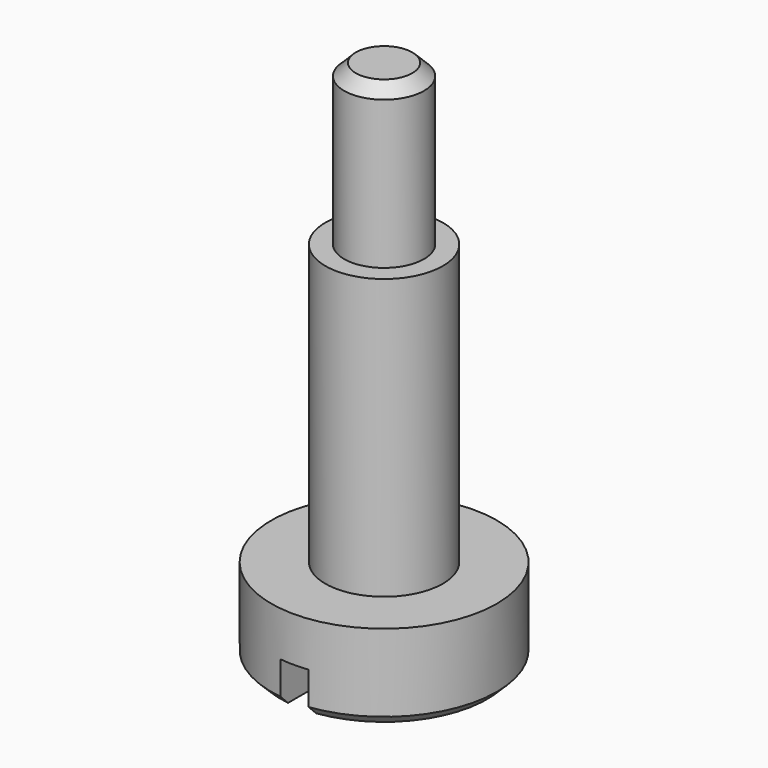
from build123d import *

# Parameters (mm, degrees)
F2_SIZE  = 0.25
F4_DEPTH = 0.9
F5_SIZE  = 0.2


with BuildPart() as f1:
    # F0 (on Front) → F1 (revolve)
    with BuildSketch(Plane.XZ):
        Polygon((0, 11.2), (0, 0), (2.4, 0), (2.4, 1.85), (1.25, 1.85), (1.25, 7.8), (0.85, 7.8), (0.85, 11.2), align=None)
    revolve(axis=Axis((0, 0, 5.6), (0, 0, -1)))

    # F2
    f2_edges = [f1.edges().sort_by_distance(p)[0] for p in [
        (-0.85, 0, 11.2),
    ]]
    chamfer(f2_edges, length=F2_SIZE)

    # F3 (on face) → F4 (cut)
    with BuildSketch(Plane(origin=(0, 0, 0), x_dir=(1, 0, 0), z_dir=(0, 0, -1))):
        with BuildLine():
            ThreePointArc((0.3, 2.38117618), (0, 2.4), (-0.3, 2.38117618))
            Line((-0.3, 2.38117618), (-0.3, -2.38117618))
            ThreePointArc((-0.3, -2.38117618), (0, -2.4), (0.3, -2.38117618))
            Line((0.3, -2.38117618), (0.3, 2.38117618))
        make_face()
    extrude(amount=-F4_DEPTH, mode=Mode.SUBTRACT)

    # F5
    f5_edges = [f1.edges().sort_by_distance(p)[0] for p in [
        (1.8, 1.587451, 0),
        (1.8, -1.587451, 0),
        (-2.4, 0, 0),
    ]]
    chamfer(f5_edges, length=F5_SIZE)


solid = f1.part
